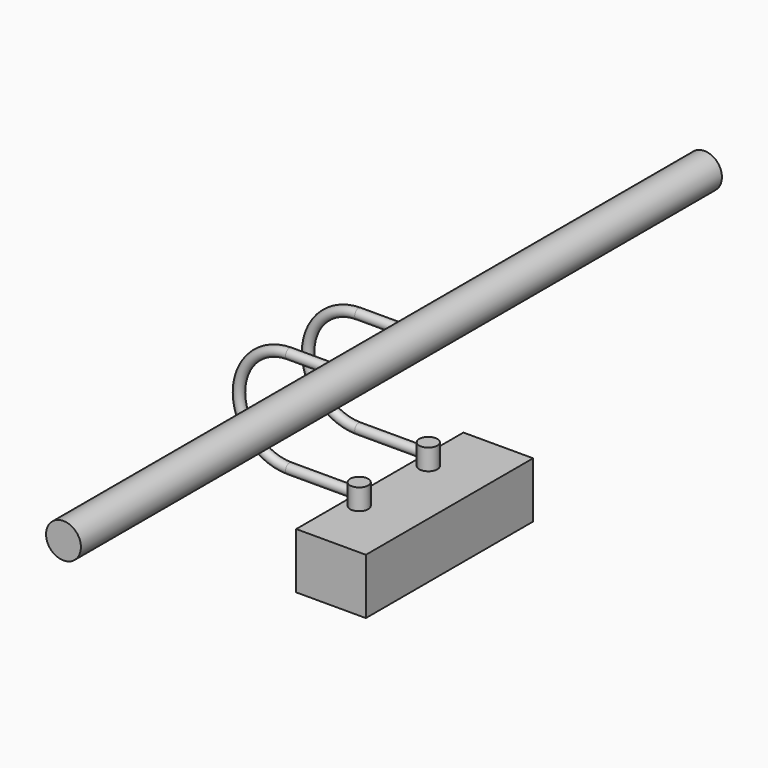
from build123d import *

# Parameters (mm, degrees)
F0_W     = 50
F0_H     = 150
F1_DEPTH = 40
F2_R     = 6.5
F3_DEPTH = 15
F4_R     = 12.5
F5_DEPTH = 287.5
F9_R     = 3.5


with BuildPart() as f1:
    # F0 (on Top) → F1 (new body)
    with BuildSketch(Plane.XY):
        with Locations((-25, 0)):
            Rectangle(F0_W, F0_H)
    extrude(amount=F1_DEPTH)

    # F2 (on face) → F3 (join)
    with BuildSketch(Plane.XY.offset(40)):
        with Locations((-40, -31)):
            Circle(F2_R)
        with Locations((-40, 31)):
            Circle(F2_R)
    extrude(amount=F3_DEPTH)



with BuildPart() as f5:
    # F4 (on Front) → F5 (new body, symmetric)
    with BuildSketch(Plane.XZ):
        with Locations((-47, 120)):
            Circle(F4_R)
    extrude(amount=F5_DEPTH, both=True)


with BuildPart() as f1_1:
    add(f1.part)

    add(f5.part)  # F10 merges F5
    # F10: sweep along a path in F7
    with BuildLine(Plane.XZ.offset(31)) as f10_path:
        Line((-50, 120), (-90, 120))
        ThreePointArc((-90, 120), (-126.25, 83.75), (-90, 47.5))
        Line((-90, 47.5), (-40, 47.5))
    # F9 (on line) → F10 (sweep)
    with BuildSketch(Plane(origin=(-50, 0, 0), x_dir=(0, -1, 0), z_dir=(-1, 0, 0))):
        with Locations((31, 120)):
            Circle(F9_R)
    sweep(path=f10_path.line)

    # F11: F1 across plane


with BuildPart() as f1_2:
    add(f1_1.part)
    add(f1_1.part.mirror(Plane.XZ))


solid = f1_2.part
